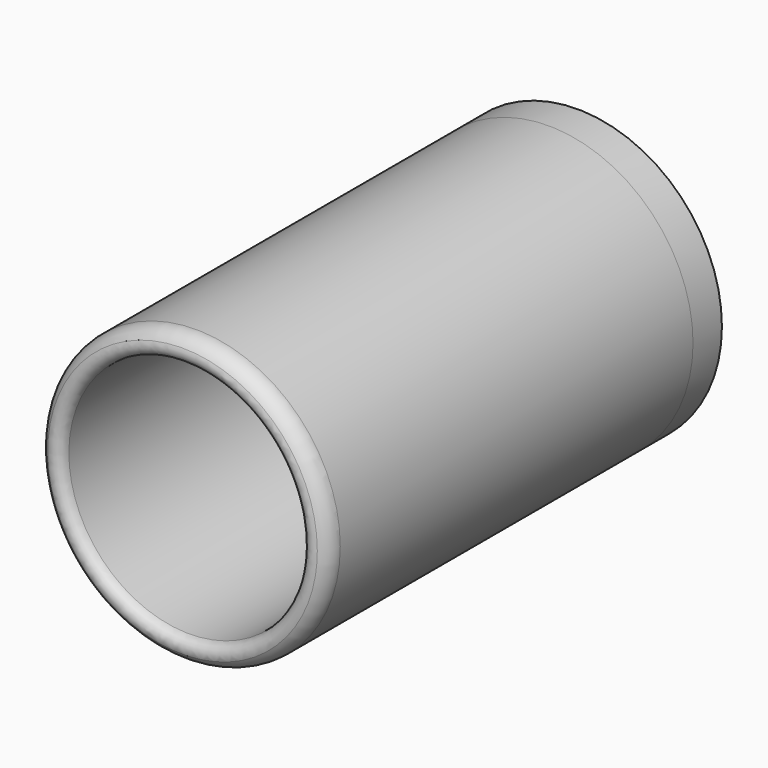
from build123d import *

# Parameters (mm, degrees)
F0_R     = 38.1
F0_R_2   = 31.75
F1_DEPTH = 121.412
F2_R     = 5.08
F3_R     = 2.54
F4_DEPTH = 9.525


with BuildPart() as f1:
    # F0 (on Front) → F1 (new body)
    with BuildSketch(Plane.XZ):
        Circle(F0_R)
        Circle(F0_R_2, mode=Mode.SUBTRACT)
    extrude(amount=F1_DEPTH)

    # F2
    f2_edges = [f1.edges().sort_by_distance(p)[0] for p in [
        (-38.1, -121.412, 0),
    ]]
    fillet(f2_edges, radius=F2_R)

    # F3
    f3_edges = [f1.edges().sort_by_distance(p)[0] for p in [
        (-31.75, -121.412, 0),
    ]]
    fillet(f3_edges, radius=F3_R)


with BuildPart() as f4:
    # F0 (on Front) → F4 (new body)
    with BuildSketch(Plane.XZ):
        Circle(F0_R)
        Circle(F0_R_2, mode=Mode.SUBTRACT)
        Circle(F0_R_2)
    extrude(amount=-F4_DEPTH)


solid = Compound([f1.part, f4.part])
